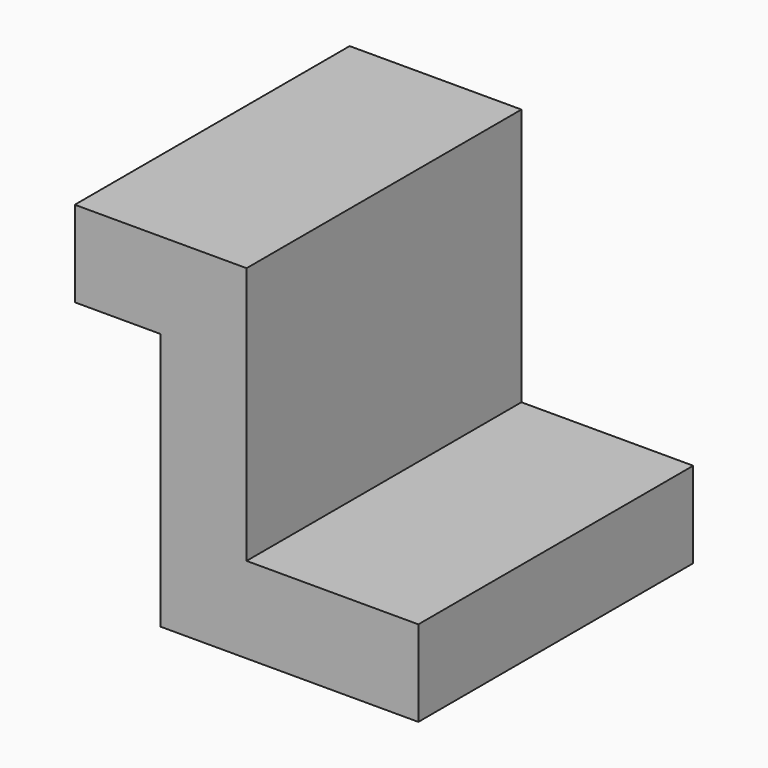
from build123d import *

# Parameters (mm, degrees)
F0_W     = 101.6
F0_H     = 101.6
F1_DEPTH = 101.6
F2_W     = 25.4
F2_H     = 76.2
F2_W_2   = 50.8
F3_DEPTH = 142.24


with BuildPart() as f1:
    # F0 (on Top) → F1 (new body)
    with BuildSketch(Plane.XY):
        with Locations((-50.8, -50.8)):
            Rectangle(F0_W, F0_H)
    extrude(amount=F1_DEPTH)

    # F2 (on face) → F3 (cut)
    with BuildSketch(Plane.XZ.offset(101.6)):
        with Locations((-88.9, 38.1)):
            Rectangle(F2_W, F2_H)
        with Locations((-25.4, 63.5)):
            Rectangle(F2_W_2, F2_H)
    extrude(amount=-F3_DEPTH, mode=Mode.SUBTRACT)


solid = f1.part
